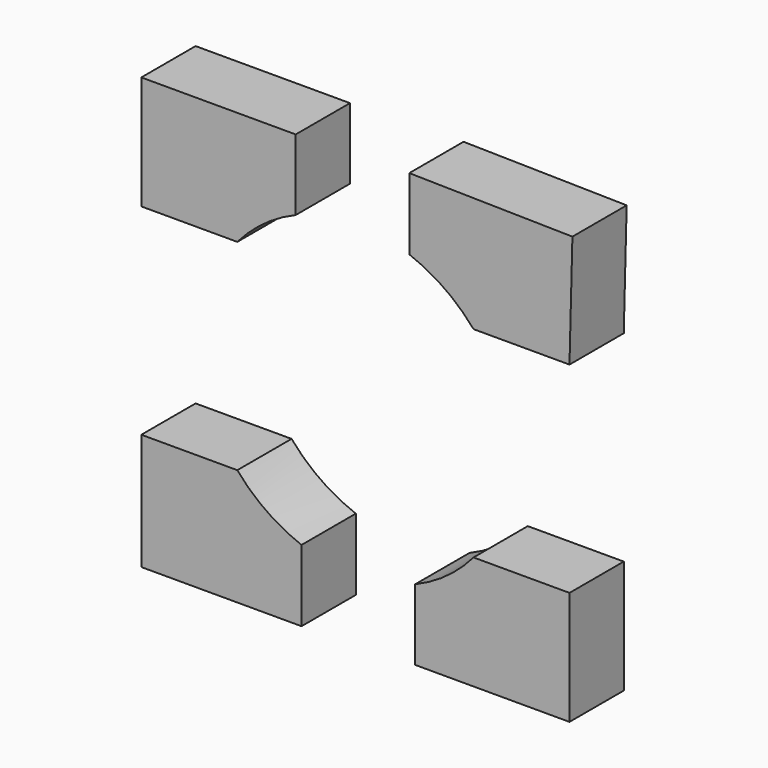
from build123d import *

# Parameters (mm, degrees)
F1_DEPTH = 7


with BuildPart() as f1:
    # F0 (on Front) → F1 (new body)
    with BuildSketch(Plane.XZ):
        with BuildLine():
            ThreePointArc((-12.188022, 10.369752), (-9.434827, 12.925312), (-6.161736, 14.768637))
            Line((-6.161736, 14.768637), (-6.161736, 22.092082))
            Line((-6.161736, 22.092082), (-22.092082, 22.092082))
            Line((-22.092082, 22.092082), (-22.092082, 10.369752))
            Line((-22.092082, 10.369752), (-12.188022, 10.369752))
        make_face()
        with BuildLine():
            ThreePointArc((5.560591, 15.005314), (9.171992, 13.113131), (12.188022, 10.369752))
            Line((12.188022, 10.369752), (22.092082, 10.369752))
            Line((22.092082, 10.369752), (22.392653, 22.092082))
            Line((22.392653, 22.092082), (5.560591, 22.392653))
            Line((5.560591, 22.392653), (5.560591, 15.005314))
        make_face()
        with BuildLine():
            Line((-5.560591, -22.392653), (-5.560591, -15.005314))
            ThreePointArc((-5.560591, -15.005314), (-9.171992, -13.113131), (-12.188022, -10.369752))
            Line((-12.188022, -10.369752), (-22.092082, -10.369752))
            Line((-22.092082, -10.369752), (-22.092082, -22.392653))
            Line((-22.092082, -22.392653), (-5.560591, -22.392653))
        make_face()
        with BuildLine():
            Line((22.092082, -10.369752), (12.188022, -10.369752))
            ThreePointArc((12.188022, -10.369752), (9.434827, -12.925312), (6.161736, -14.768637))
            Line((6.161736, -14.768637), (6.161736, -22.092082))
            Line((6.161736, -22.092082), (22.092082, -22.092082))
            Line((22.092082, -22.092082), (22.092082, -10.369752))
        make_face()
    extrude(amount=F1_DEPTH)


solid = f1.part
